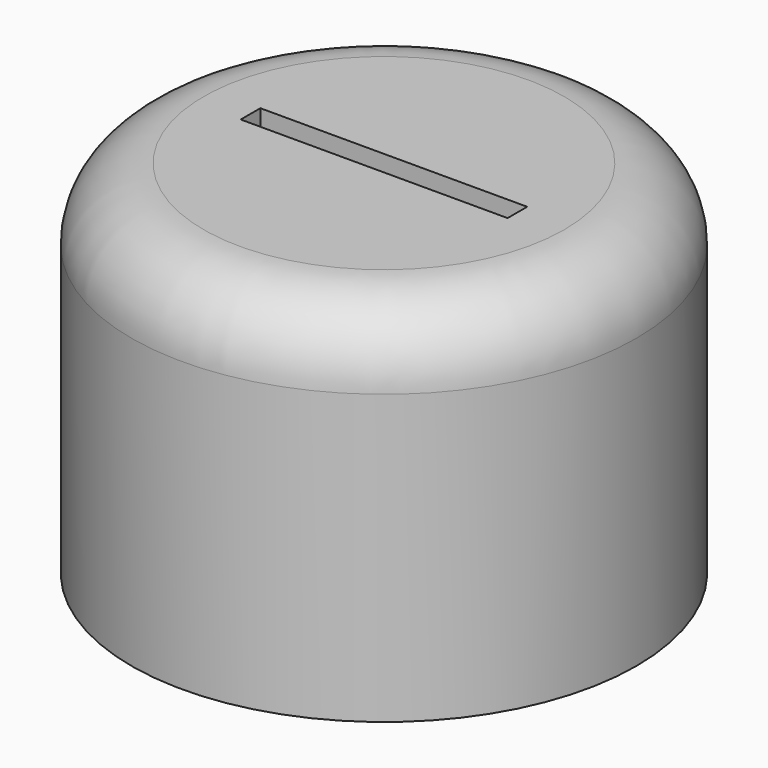
from build123d import *

# Parameters (mm, degrees)
F0_R     = 17.5
F1_DEPTH = 25
F2_R     = 5
F3_W     = 18.5
F3_H     = 1.7
F4_DEPTH = 20


with BuildPart() as f1:
    # F0 (on Top) → F1 (new body)
    with BuildSketch(Plane.XY):
        Circle(F0_R)
    extrude(amount=F1_DEPTH)

    # F2
    f2_edges = [f1.edges().sort_by_distance(p)[0] for p in [
        (-17.5, 0, 25),
    ]]
    fillet(f2_edges, radius=F2_R)

    # F3 (on face) → F4 (cut)
    with BuildSketch(Plane.XY.offset(25)):
        Rectangle(F3_W, F3_H)
    extrude(amount=-F4_DEPTH, mode=Mode.SUBTRACT)


solid = f1.part
